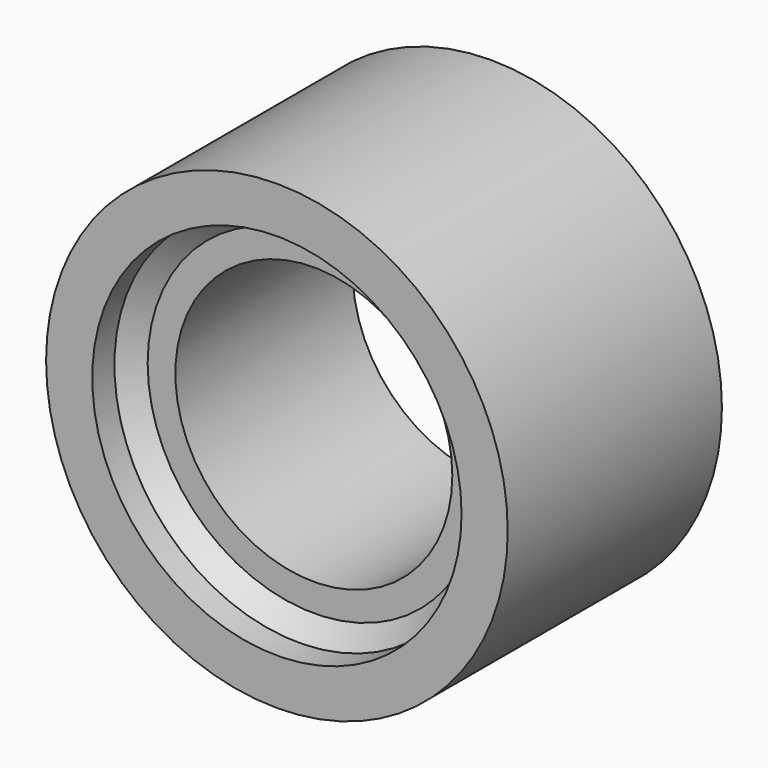
from build123d import *

# Parameters (mm, degrees)
F0_R     = 31.75
F1_DEPTH = 36.83
F2_R     = 25.4
F3_DEPTH = 6.35
F4_SIZE  = 2.54
F5_R     = 19.05
F6_DEPTH = 30.481


with BuildPart() as f1:
    # F0 (on Front) → F1 (new body)
    with BuildSketch(Plane.XZ):
        Circle(F0_R)
    extrude(amount=F1_DEPTH)

    # F2 (on face) → F3 (cut)
    with BuildSketch(Plane.XZ.offset(36.83)):
        Circle(F2_R)
    extrude(amount=-F3_DEPTH, mode=Mode.SUBTRACT)

    # F4
    f4_edges = [f1.edges().sort_by_distance(p)[0] for p in [
        (-25.4, -30.48, 0),
    ]]
    chamfer(f4_edges, length=F4_SIZE)

    # F5 (on face) → F6 (cut, through all)
    with BuildSketch(Plane.XZ.offset(30.48)):
        Circle(F5_R)
    extrude(amount=-F6_DEPTH, mode=Mode.SUBTRACT)


solid = f1.part
